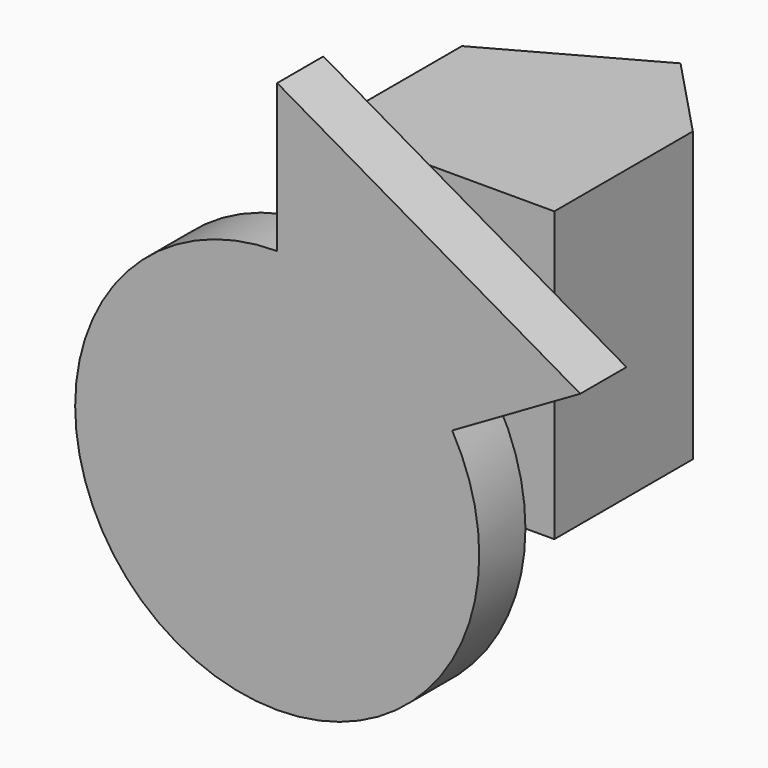
from build123d import *

# Parameters (mm, degrees)
F1_W     = 101.6
F1_H     = 76.2
F2_DEPTH = 127
F3_R     = 25.4
F4_DEPTH = 50.8
F5_DEPTH = 25.4


with BuildPart() as f2:
    # F1 (on Top) → F2 (new body)
    with BuildSketch(Plane.XY):
        with Locations((50.8, 38.1)):
            Rectangle(F1_W, F1_H)
        Polygon((66.675, 113.0901663726), (0, 76.2), (101.6, 76.2), align=None)
    extrude(amount=F2_DEPTH)

    # F3 (on face) → F4 (cut)
    with BuildSketch(Plane(origin=(0, 0, 0), x_dir=(0, -1, 0), z_dir=(-1, 0, 0))):
        with Locations((-40.64, 88.9)):
            Circle(F3_R)
    extrude(amount=-F4_DEPTH, mode=Mode.SUBTRACT)


with BuildPart() as f5:
    # F0 (on Front) → F5 (new body)
    with BuildSketch(Plane.XZ):
        with BuildLine():
            ThreePointArc((0, 88.9), (-62.8617928475, -62.8617928475), (88.9, 0))
            ThreePointArc((88.9, 0), (85.8708059571, 23.0090131096), (76.9896583964, 44.45))
            Line((76.9896583964, 44.45), (0, 0))
            Line((0, 0), (0, 88.9))
        make_face()
        with BuildLine():
            Line((0, 0), (76.9896583964, 44.45))
            ThreePointArc((76.9896583964, 44.45), (44.45, 76.9896583964), (0, 88.9))
            Line((0, 88.9), (0, 0))
        make_face()
        with BuildLine():
            ThreePointArc((0, 88.9), (44.45, 76.9896583964), (76.9896583964, 44.45))
            Line((76.9896583964, 44.45), (133.35, 76.9896583964))
            Line((133.35, 76.9896583964), (0, 153.9793167929))
            Line((0, 153.9793167929), (0, 88.9))
        make_face()
    extrude(amount=F5_DEPTH)


solid = Compound([f2.part, f5.part])
